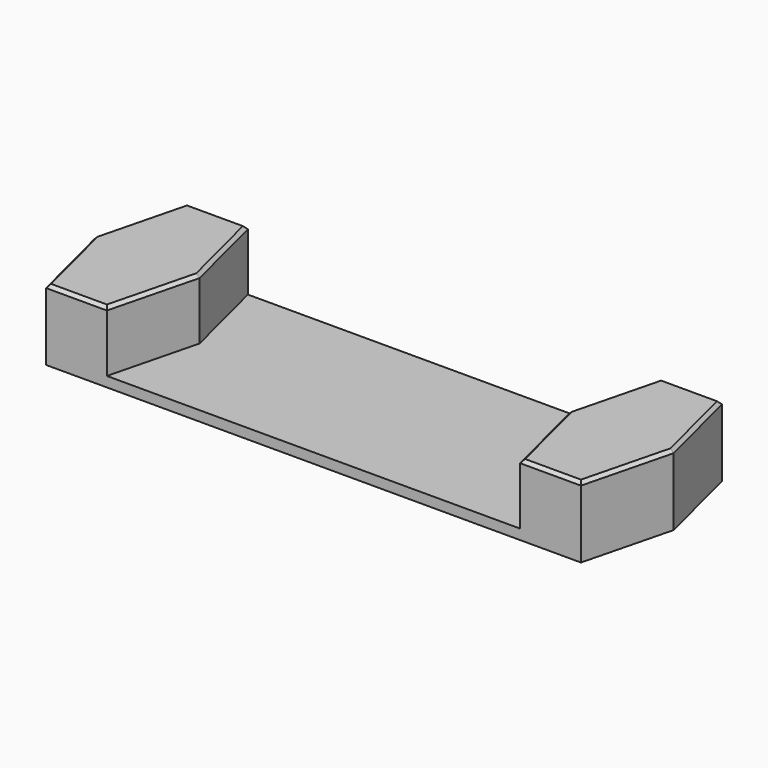
from build123d import *

# Parameters (mm, degrees)
EXTRUDE001_DEPTH = 19.05
EXTRUDE_DEPTH    = 3.17
CHAMFER_SIZE     = 1


with BuildPart() as extrude001:
    # Sketch001 (on Face8 of Extrude) → Extrude001 (new body)
    with BuildSketch(Plane.XY.offset(3.17)):
        Polygon((6.985, 55.245), (0, 27.6225), (6.985, 0), (26.035, 0), (33.02, 27.6225), (26.035, 55.245), align=None)
        Polygon((174.625, 55.245), (155.575, 55.245), (148.59, 27.6225), (155.575, 0), (174.625, 0), (181.61, 27.6225), align=None)
    extrude(amount=EXTRUDE001_DEPTH)


with BuildPart() as chamfer_body:
    # Sketch → Extrude (new body)
    with BuildSketch(Plane.XY):
        Polygon((6.985, 0), (174.625, 0), (181.61, 27.6225), (174.625, 55.245), (6.985, 55.245), (0, 27.6225), align=None)
    extrude(amount=EXTRUDE_DEPTH)

    # Fusion: union Extrude001
    add(extrude001.part)

    # Chamfer
    chamfer_edges = [chamfer_body.edges().sort_by_distance(p)[0] for p in [
        (16.51, 0, 22.22),
        (165.1, 0, 22.22),
        (3.4925, 13.81125, 22.22),
        (178.1175, 13.81125, 22.22),
        (29.5275, 13.81125, 22.22),
        (3.4925, 41.43375, 22.22),
        (29.5275, 41.43375, 22.22),
        (16.51, 55.245, 22.22),
        (152.0825, 41.43375, 22.22),
        (152.0825, 13.81125, 22.22),
        (165.1, 55.245, 22.22),
        (178.1175, 41.43375, 22.22),
    ]]
    chamfer(chamfer_edges, length=CHAMFER_SIZE)


solid = chamfer_body.part
